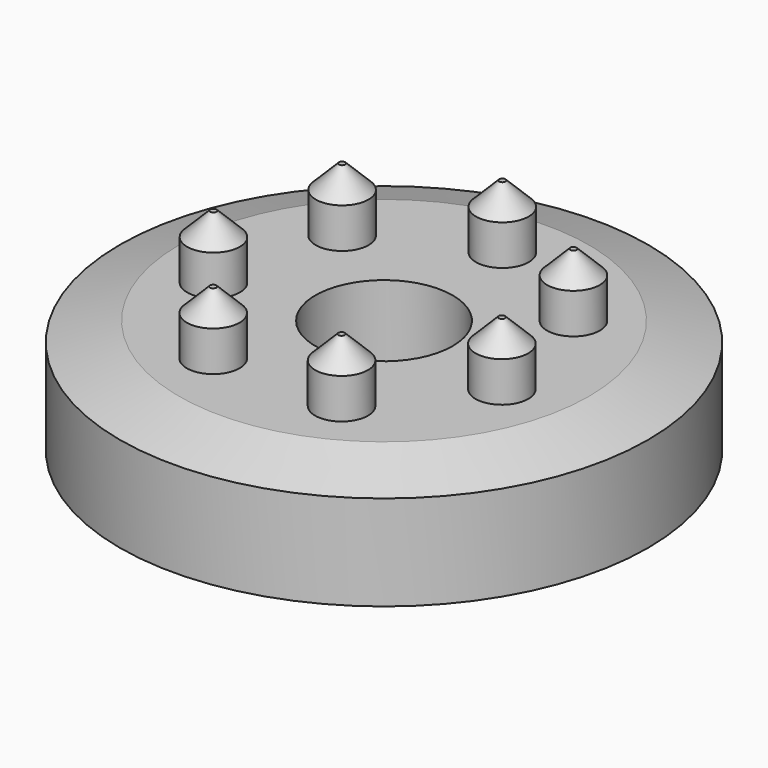
from build123d import *

# Parameters (mm, degrees)
F0_R     = 25
F1_DEPTH = 10.8
F2_SIZE2 = 1.8
F2_SIZE  = 5.6
F3_R     = 2.5
F4_DEPTH = 6
F5_SIZE  = 2.2
F3_R_2   = 6.5
F6_DEPTH = 10.801
F8_DEPTH = 4.2


with BuildPart() as f1:
    # F0 (on Top) → F1 (new body)
    with BuildSketch(Plane.XY):
        Circle(F0_R)
    extrude(amount=F1_DEPTH)

    # F2
    f2_edges = [f1.edges().sort_by_distance(p)[0] for p in [
        (-25, 0, 10.8),
    ]]
    f2_side = f1.faces().sort_by_distance((0, 0, 10.8))[0]
    chamfer(f2_edges, length=F2_SIZE, length2=F2_SIZE2, reference=f2_side)

    # F3 (on face) → F4 (join)
    with BuildSketch(Plane.XY.offset(10.8)):
        with Locations((-10.9456407546, 8.728857226)):
            Circle(F3_R)
        with Locations((0, 14)):
            Circle(F3_R)
        with Locations((10.9456407546, 8.728857226)):
            Circle(F3_R)
        with Locations((13.6489907705, -3.1152930754)):
            Circle(F3_R)
        with Locations((6.0743723476, -12.6135641506)):
            Circle(F3_R)
        with Locations((-6.0743723476, -12.6135641506)):
            Circle(F3_R)
        with Locations((-13.6489907705, -3.1152930754)):
            Circle(F3_R)
    extrude(amount=F4_DEPTH)

    # F5
    f5_edges = [f1.edges().sort_by_distance(p)[0] for p in [
        (-2.5, 14, 16.8),
        (8.445641, 8.728857, 16.8),
        (11.148991, -3.115293, 16.8),
        (3.574372, -12.613564, 16.8),
        (-8.574372, -12.613564, 16.8),
        (-16.148991, -3.115293, 16.8),
        (-13.445641, 8.728857, 16.8),
    ]]
    chamfer(f5_edges, length=F5_SIZE)

    # F3 (on face) → F6 (cut, through all)
    with BuildSketch(Plane.XY.offset(10.8)):
        Circle(F3_R_2)
    extrude(amount=-F6_DEPTH, mode=Mode.SUBTRACT)

    # F7 (on face) → F8 (cut)
    with BuildSketch(Plane(origin=(0, 0, 0), x_dir=(1, 0, 0), z_dir=(0, 0, -1))):
        with BuildLine():
            Line((4.6488008791, 9.9693856574), (9.72022002, 20.8450791018))
            ThreePointArc((9.72022002, 20.8450791018), (4.9781111206, 22.4548081638), (0, 23))
            Line((0, 23), (0, 11))
            ThreePointArc((0, 11), (2.3808357533, 10.7392560783), (4.6488008791, 9.9693856574))
        make_face()
        with BuildLine():
            Line((9.9693856574, 4.6488008791), (20.8450791018, 9.72022002))
            ThreePointArc((20.8450791018, 9.72022002), (18.2471268267, 14.0015128672), (14.7841150228, 17.6190221917))
            Line((14.7841150228, 17.6190221917), (7.0706637066, 8.4264888743))
            ThreePointArc((7.0706637066, 8.4264888743), (8.7268867432, 6.6963757191), (9.9693856574, 4.6488008791))
        make_face()
        with BuildLine():
            ThreePointArc((22.2162940046, -5.9528380374), (22.8032318116, -3.0021024211), (23, 0))
            ThreePointArc((23, 0), (22.9124780561, 2.0045820832), (22.6505783193, 3.9939080863))
            Line((22.6505783193, 3.9939080863), (10.8328852831, 1.9101299543))
            ThreePointArc((10.8328852831, 1.9101299543), (10.958141679, 0.9587131702), (11, 0))
            ThreePointArc((11, 0), (10.9058934751, -1.4357881144), (10.6251840892, -2.8470094961))
            Line((10.6251840892, -2.8470094961), (22.2162940046, -5.9528380374))
        make_face()
        with BuildLine():
            ThreePointArc((13.1922580361, -18.8404970186), (16.9573787466, -15.5385747752), (19.918584287, -11.5))
            Line((19.918584287, -11.5), (9.5262794416, -5.5))
            ThreePointArc((9.5262794416, -5.5), (8.1100507049, -7.4314922838), (6.3093407999, -9.0106724872))
            Line((6.3093407999, -9.0106724872), (13.1922580361, -18.8404970186))
        make_face()
        with BuildLine():
            ThreePointArc((-2.0045820832, -22.9124780561), (3.0021024211, -22.8032318116), (7.8664632965, -21.6129302781))
            Line((7.8664632965, -21.6129302781), (3.7622215766, -10.3366188286))
            ThreePointArc((3.7622215766, -10.3366188286), (1.4357881144, -10.9058934751), (-0.9587131702, -10.958141679))
            Line((-0.9587131702, -10.958141679), (-2.0045820832, -22.9124780561))
        make_face()
        with BuildLine():
            Line((-7.8664632965, -21.6129302781), (-3.7622215766, -10.3366188286))
            ThreePointArc((-3.7622215766, -10.3366188286), (-5.9102956918, -9.2773059039), (-7.7781745931, -7.7781745931))
            Line((-7.7781745931, -7.7781745931), (-16.2634559673, -16.2634559673))
            ThreePointArc((-16.2634559673, -16.2634559673), (-12.357890992, -19.3980032537), (-7.8664632965, -21.6129302781))
        make_face()
        with BuildLine():
            Line((-19.918584287, -11.5), (-9.5262794416, -5.5))
            ThreePointArc((-9.5262794416, -5.5), (-10.4908864582, -3.3077637945), (-10.958141679, -0.9587131702))
            Line((-10.958141679, -0.9587131702), (-22.9124780561, -2.0045820832))
            ThreePointArc((-22.9124780561, -2.0045820832), (-21.9354898672, -6.9162333886), (-19.918584287, -11.5))
        make_face()
        with BuildLine():
            Line((-22.6505783193, 3.9939080863), (-10.8328852831, 1.9101299543))
            ThreePointArc((-10.8328852831, 1.9101299543), (-10.1626748576, 4.209517756), (-9.0106724872, 6.3093407999))
            Line((-9.0106724872, 6.3093407999), (-18.8404970186, 13.1922580361))
            ThreePointArc((-18.8404970186, 13.1922580361), (-21.2492292478, 8.8017189444), (-22.6505783193, 3.9939080863))
        make_face()
        with BuildLine():
            Line((-2.8470094961, 10.6251840892), (-5.9528380374, 22.2162940046))
            ThreePointArc((-5.9528380374, 22.2162940046), (-10.6202181044, 20.4012491631), (-14.7841150228, 17.6190221917))
            Line((-14.7841150228, 17.6190221917), (-7.0706637066, 8.4264888743))
            ThreePointArc((-7.0706637066, 8.4264888743), (-5.0792347456, 9.757119165), (-2.8470094961, 10.6251840892))
        make_face()
    extrude(amount=-F8_DEPTH, mode=Mode.SUBTRACT)


solid = f1.part
